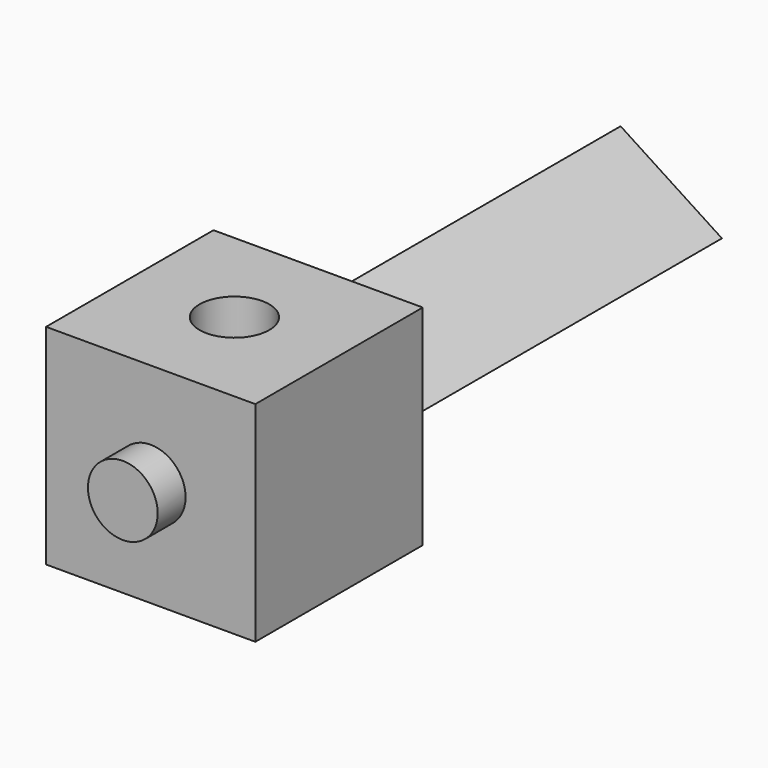
from build123d import *

# Parameters (mm, degrees)
F0_W     = 76.2
F0_H     = 76.2
F1_DEPTH = 76.2
F3_D     = 25.4
F4_W     = 25.4
F4_H     = 25.4
F5_DEPTH = 12.7
F6_R     = 12.7
F7_DEPTH = 12.7
F9_DEPTH = 152.4


with BuildPart() as f1:
    # F0 (on Front) → F1 (new body)
    with BuildSketch(Plane.XZ):
        with Locations((11.565426, 19.49024)):
            Rectangle(F0_W, F0_H)
    extrude(amount=F1_DEPTH)

    # F3 (through all)
    with Locations(Plane.XY.offset(57.59024)):
        with Locations((11.565426, -38.1)):
            Hole(F3_D / 2)

    # F4 (on face) → F5 (join)
    with BuildSketch(Plane(origin=(-26.534574, 0, 0), x_dir=(0, -1, 0), z_dir=(-1, 0, 0))):
        with Locations((38.1, 19.49024)):
            Rectangle(F4_W, F4_H)
    extrude(amount=F5_DEPTH)

    # F6 (on face) → F7 (join)
    with BuildSketch(Plane.XZ.offset(76.2)):
        with Locations((11.565426, 19.49024)):
            Circle(F6_R)
    extrude(amount=F7_DEPTH)

    # F8 (on face) → F9 (join)
    with BuildSketch(Plane(origin=(0, 0, 0), x_dir=(-1, 0, 0), z_dir=(0, 1, 0))):
        Polygon((0.204802, 37.538857), (-36.691747, 13.577958), (2.507274, -6.394941), align=None)
    extrude(amount=F9_DEPTH)


solid = f1.part
